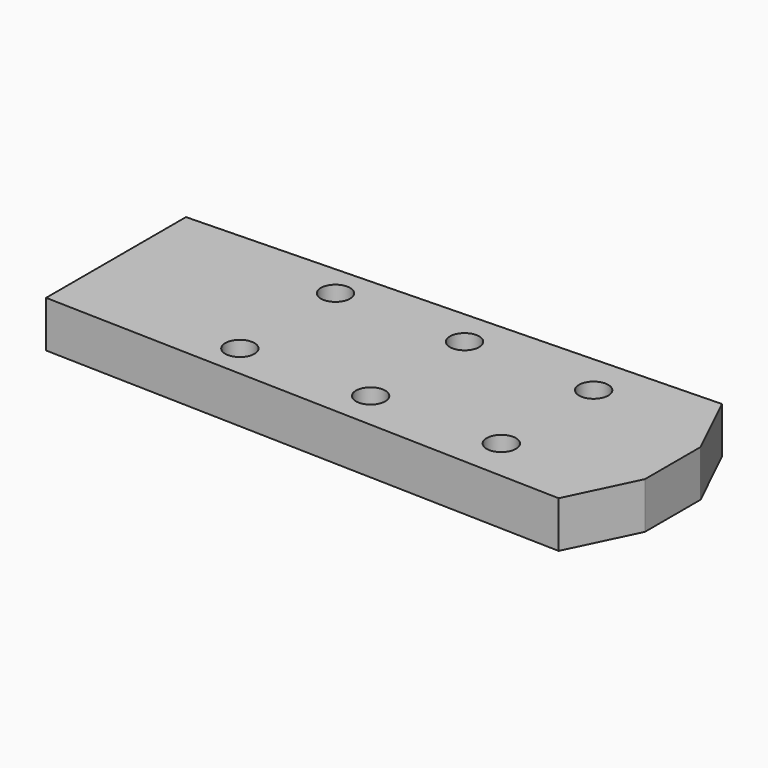
from build123d import *

# Parameters (mm, degrees)
F0_R     = 5
F1_DEPTH = 15.875


with BuildPart() as f1:
    # F0 (on Top) → F1 (new body)
    with BuildSketch(Plane.XY):
        Polygon((0, -11.903409), (0, 0), (0, 11.903409), (-11.1125, 34.925), (-190.5, 29.915689), (-190.5, 0), (-190.5, -29.915689), (-11.1125, -34.925), align=None)
        with Locations((-131.7625, -20.443406)):
            Circle(F0_R, mode=Mode.SUBTRACT)
        with Locations((-87.3125, -20.097151)):
            Circle(F0_R, mode=Mode.SUBTRACT)
        with Locations((-42.8625, -19.750896)):
            Circle(F0_R, mode=Mode.SUBTRACT)
        with Locations((-131.7625, 20.443406)):
            Circle(F0_R, mode=Mode.SUBTRACT)
        with Locations((-87.3125, 20.097151)):
            Circle(F0_R, mode=Mode.SUBTRACT)
        with Locations((-42.8625, 19.750896)):
            Circle(F0_R, mode=Mode.SUBTRACT)
    extrude(amount=F1_DEPTH)


solid = f1.part
